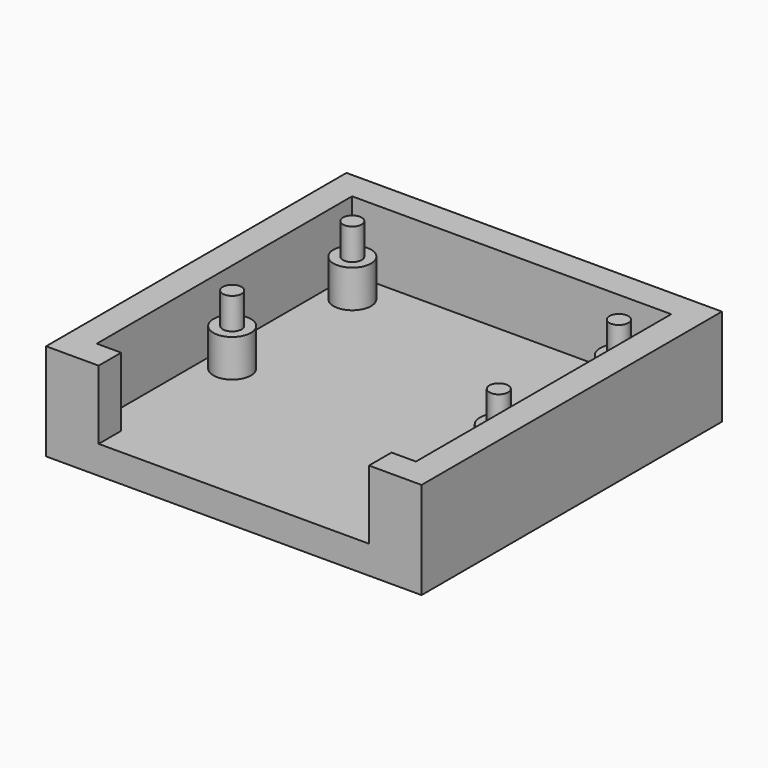
from build123d import *

# Parameters (mm, degrees)
F1_DEPTH = 5.5
F0_W     = 21.6
F0_H     = 2.25
F2_DEPTH = 2.25
F3_R     = 1.5
F3_R_2   = 0.75
F4_DEPTH = 3
F5_DEPTH = 5.5


with BuildPart() as f1:
    # F0 (on Top) → F1 (new body)
    with BuildSketch(Plane.XY):
        Polygon((0, 30), (0, 0), (4.2, 0), (4.2, 2.25), (2.25, 2.25), (2.25, 27.75), (27.75, 27.75), (27.75, 2.25), (25.8, 2.25), (25.8, 0), (30, 0), (30, 30), align=None)
    extrude(amount=F1_DEPTH)

    # F0 (on Top) → F2 (join)
    with BuildSketch(Plane.XY):
        Polygon((2.25, 2.25), (4.2, 2.25), (25.8, 2.25), (27.75, 2.25), (27.75, 27.75), (2.25, 27.75), align=None)
        Polygon((0, 30), (0, 0), (4.2, 0), (4.2, 2.25), (2.25, 2.25), (2.25, 27.75), (27.75, 27.75), (27.75, 2.25), (25.8, 2.25), (25.8, 0), (30, 0), (30, 30), align=None)
        with Locations((15, 1.125)):
            Rectangle(F0_W, F0_H)
    extrude(amount=-F2_DEPTH)

    # F3 (on face) → F4 (join)
    with BuildSketch(Plane.XY):
        with Locations((25.65, 25.15)):
            Circle(F3_R)
        with Locations((25.65, 25.15)):
            Circle(F3_R_2, mode=Mode.SUBTRACT)
        with Locations((25.65, 13.15)):
            Circle(F3_R)
        with Locations((25.65, 13.15)):
            Circle(F3_R_2, mode=Mode.SUBTRACT)
        with Locations((4.35, 25.15)):
            Circle(F3_R)
        with Locations((4.35, 25.15)):
            Circle(F3_R_2, mode=Mode.SUBTRACT)
        with Locations((4.35, 13.15)):
            Circle(F3_R)
        with Locations((4.35, 13.15)):
            Circle(F3_R_2, mode=Mode.SUBTRACT)
    extrude(amount=F4_DEPTH)

    # F3 (on face) → F5 (join)
    with BuildSketch(Plane.XY):
        with Locations((4.35, 25.15)):
            Circle(F3_R_2)
        with Locations((25.65, 25.15)):
            Circle(F3_R_2)
        with Locations((25.65, 13.15)):
            Circle(F3_R_2)
        with Locations((4.35, 13.15)):
            Circle(F3_R_2)
    extrude(amount=F5_DEPTH)


solid = f1.part
